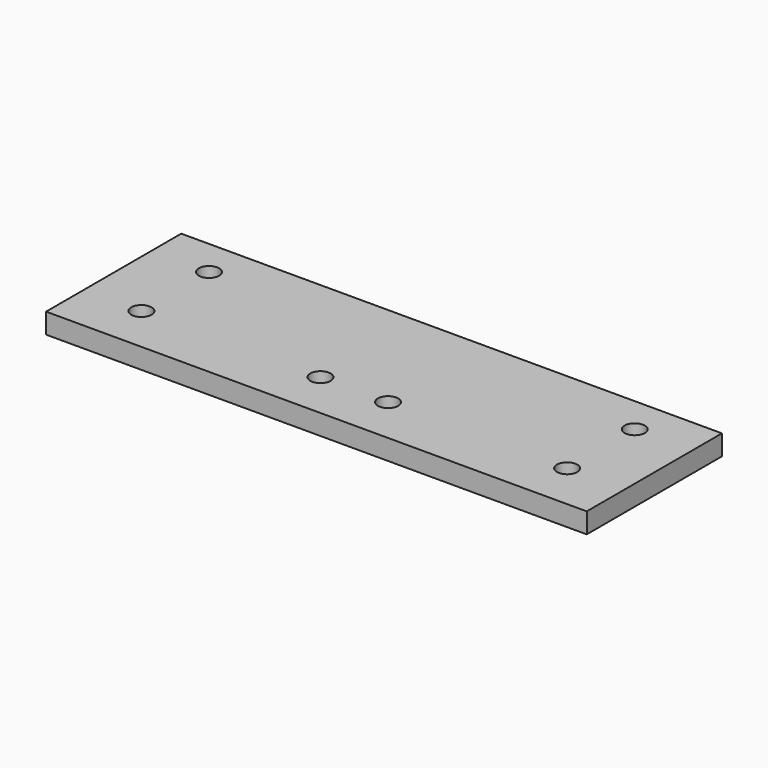
from build123d import *

# Parameters (mm, degrees)
SKETCH_W  = 40
SKETCH_H  = 25
SKETCH_R  = 1.5
PAD_DEPTH = 3


with BuildPart() as part:
    # Sketch → Pad (new body)
    with BuildSketch(Plane.XY):
        with Locations((20, 12.5)):
            Rectangle(SKETCH_W, SKETCH_H)
        with Locations((31.5, 19.5)):
            Circle(SKETCH_R, mode=Mode.SUBTRACT)
        with Locations((31.5, 7)):
            Circle(SKETCH_R, mode=Mode.SUBTRACT)
        with Locations((5, 7)):
            Circle(SKETCH_R, mode=Mode.SUBTRACT)
    pad = extrude(amount=PAD_DEPTH)

    # Mirrored: Pad across Sketch V_Axis
    add(pad.mirror(Plane(origin=(0, 0, 0), x_dir=(0, 0, 1), z_dir=(1, 0, 0))))


solid = part.part
